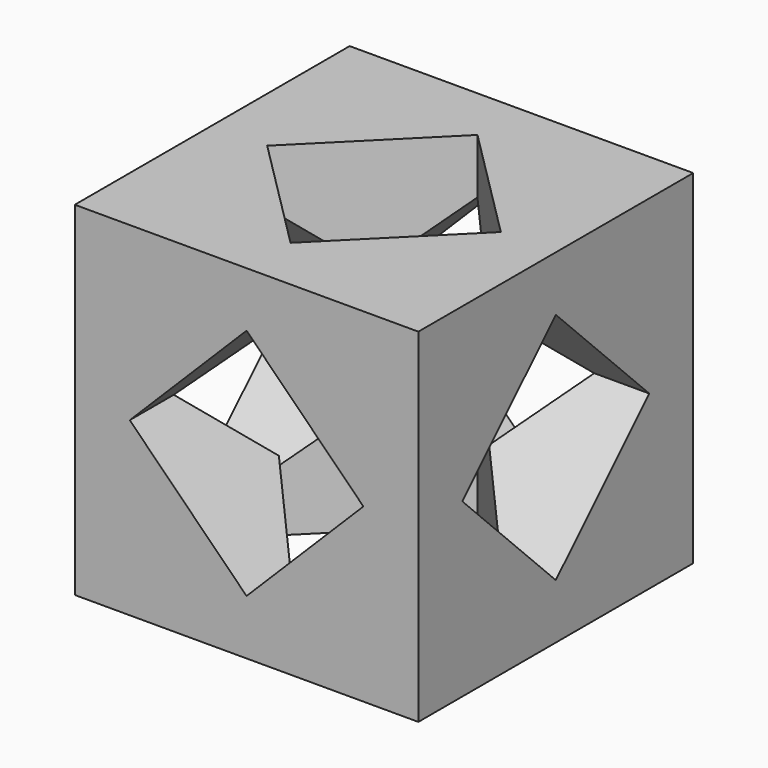
from build123d import *

# Parameters (mm, degrees)
F0_W     = 50
F0_H     = 50
F1_DEPTH = 50
F3_DEPTH = 50
F5_DEPTH = 50
F7_DEPTH = 50


with BuildPart() as f1:
    # F0 (on Top) → F1 (new body)
    with BuildSketch(Plane.XY):
        Rectangle(F0_W, F0_H)
    extrude(amount=F1_DEPTH)

    # F2 (on face) → F3 (cut)
    with BuildSketch(Plane(origin=(-25, 0, 0), x_dir=(0, -1, 0), z_dir=(-1, 0, 0))):
        Polygon((17, 24.999999), (0, 42), (-17, 25.000001), (0, 8), align=None)
    extrude(amount=-F3_DEPTH, mode=Mode.SUBTRACT)

    # F4 (on face) → F5 (cut)
    with BuildSketch(Plane.XZ.offset(25)):
        Polygon((17, 24.999998), (0, 42), (-17, 25.000002), (0, 8), align=None)
    extrude(amount=-F5_DEPTH, mode=Mode.SUBTRACT)

    # F6 (on face) → F7 (cut)
    with BuildSketch(Plane.XY.offset(50)):
        Polygon((17, 0), (0, 17), (-17, 0), (0, -17), align=None)
    extrude(amount=-F7_DEPTH, mode=Mode.SUBTRACT)


solid = f1.part
